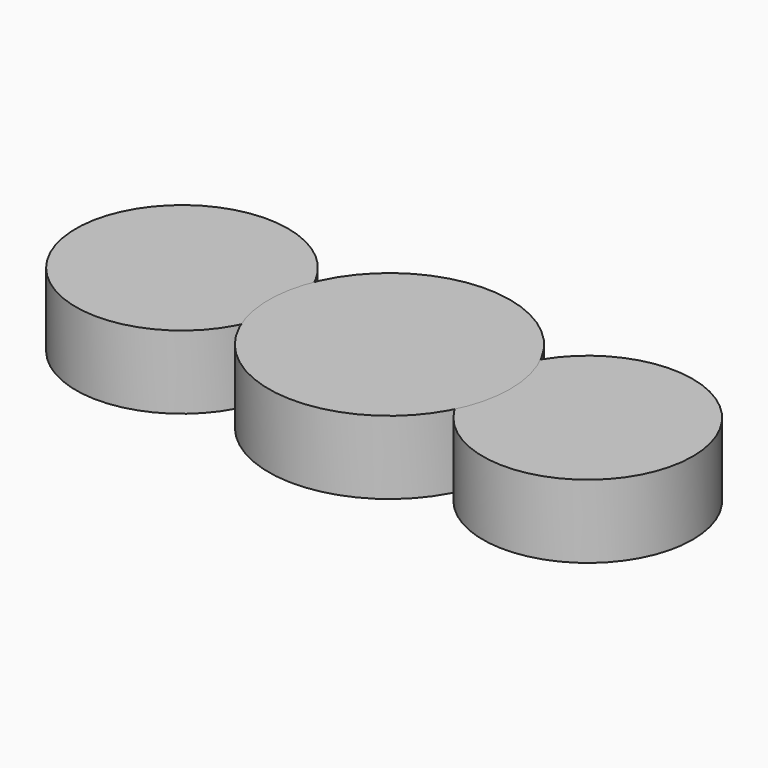
from build123d import *

# Parameters (mm, degrees)
F1_R     = 11.5926936957
F2_DEPTH = 8
F1_R_2   = 11.4606190987
F0_R     = 13.1872869675


with BuildPart() as f2:
    # F1 (on face) → F2 (new body)
    with BuildSketch(Plane.XY):
        with Locations((-22.6517971605, 0)):
            Circle(F1_R)
    extrude(amount=F2_DEPTH)


with BuildPart() as f2b:
    # F1 (on face) → F2, piece 2 (new body)
    with BuildSketch(Plane.XY):
        with Locations((21.6551497579, 0)):
            Circle(F1_R_2)
    extrude(amount=F2_DEPTH)


with BuildPart() as f2c:
    # F0 (on Top) → F2, piece 3 (new body)
    with BuildSketch(Plane.XY):
        Circle(F0_R)
    extrude(amount=F2_DEPTH)


solid = Compound([f2.part, f2b.part, f2c.part])
